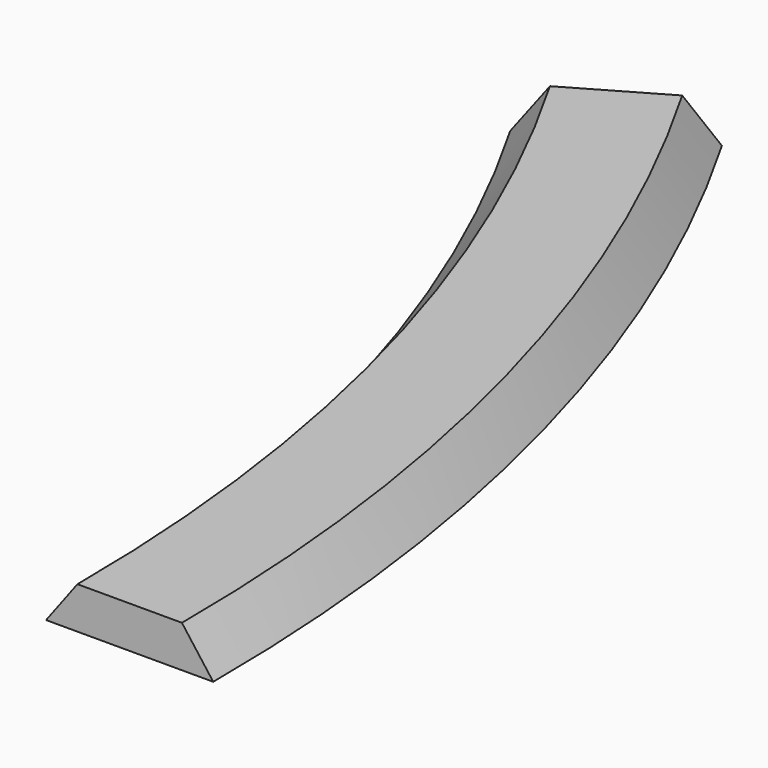
from build123d import *


with BuildPart() as f2:
    # F2: sweep along a path in F1
    with BuildLine(Plane.XY) as f2_path:
        ThreePointArc((0, 0), (-14.9074509985, 113.2333322324), (-58.6138858443, 218.75))
    # F0 (on Front) → F2 (sweep)
    with BuildSketch(Plane.XZ):
        Polygon((-12.5, 10), (-20, 0), (20, 0), (12.5, 10), align=None)
    sweep(path=f2_path.line)


solid = f2.part
